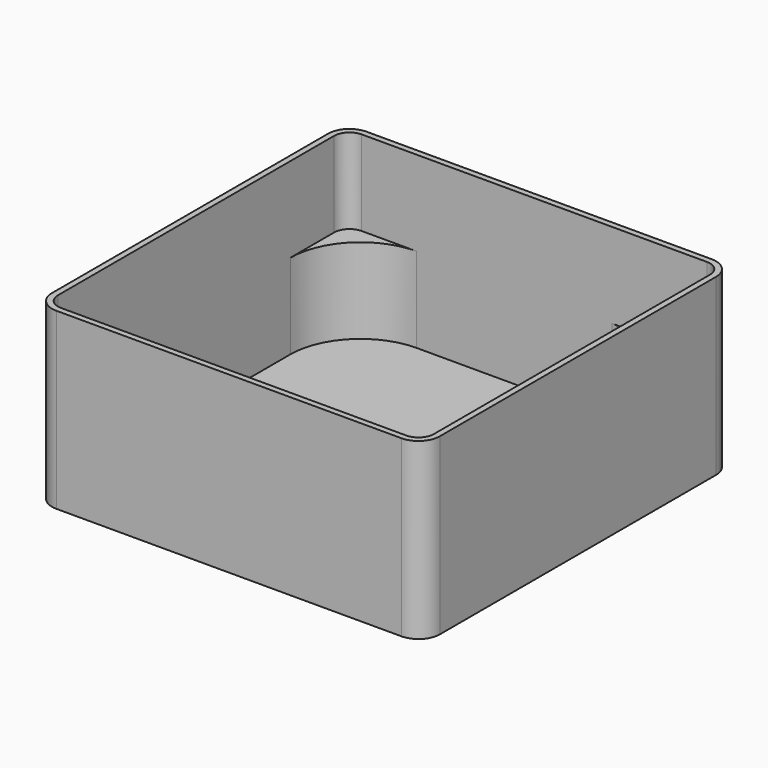
from build123d import *

# Parameters (mm, degrees)
F0_W     = 18
F0_H     = 8
F0_R     = 16.5
F0_W_2   = 8
F0_H_2   = 18
F1_DEPTH = 1
F2_DEPTH = 20
F4_DEPTH = 20
F6_DEPTH = 20


with BuildPart() as f1:
    # F0 (on Top) → F1 (new body)
    with BuildSketch(Plane.XY):
        with BuildLine():
            Line((45.2809703886, 40.8809703886), (-35.8809703886, 40.8809703886))
            ThreePointArc((-35.8809703886, 40.8809703886), (-39.4165042945, 39.4165042945), (-40.8809703886, 35.8809703886))
            Line((-40.8809703886, 35.8809703886), (-40.8809703886, -45.2809703886))
            ThreePointArc((-40.8809703886, -45.2809703886), (-39.4165042945, -48.8165042945), (-35.8809703886, -50.2809703886))
            Line((-35.8809703886, -50.2809703886), (45.2809703886, -50.2809703886))
            ThreePointArc((45.2809703886, -50.2809703886), (48.8165042945, -48.8165042945), (50.2809703886, -45.2809703886))
            Line((50.2809703886, -45.2809703886), (50.2809703886, 35.8809703886))
            ThreePointArc((50.2809703886, 35.8809703886), (48.8165042945, 39.4165042945), (45.2809703886, 40.8809703886))
        make_face()
        with Locations((-27.3089791051, -44.8809703886)):
            Rectangle(F0_W, F0_H, mode=Mode.SUBTRACT)
        with Locations((-7.9089791051, -44.8809703886)):
            Rectangle(F0_W, F0_H, mode=Mode.SUBTRACT)
        with Locations((-22.9809703886, -22.9809703886)):
            Circle(F0_R, mode=Mode.SUBTRACT)
        with Locations((11.4910208949, -44.8809703886)):
            Rectangle(F0_W, F0_H, mode=Mode.SUBTRACT)
        with Locations((30.8910208949, -44.8809703886)):
            Rectangle(F0_W, F0_H, mode=Mode.SUBTRACT)
        with Locations((44.8809703886, -30.8910208949)):
            Rectangle(F0_W_2, F0_H_2, mode=Mode.SUBTRACT)
        with Locations((22.9809703886, -22.9809703886)):
            Circle(F0_R, mode=Mode.SUBTRACT)
        with Locations((44.8809703886, -11.4910208949)):
            Rectangle(F0_W_2, F0_H_2, mode=Mode.SUBTRACT)
        with Locations((-22.9809703886, 22.9809703886)):
            Circle(F0_R, mode=Mode.SUBTRACT)
        with Locations((44.8809703886, 7.9089791051)):
            Rectangle(F0_W_2, F0_H_2, mode=Mode.SUBTRACT)
        with Locations((22.9809703886, 22.9809703886)):
            Circle(F0_R, mode=Mode.SUBTRACT)
        with Locations((44.8809703886, 27.3089791051)):
            Rectangle(F0_W_2, F0_H_2, mode=Mode.SUBTRACT)
        with Locations((-22.9809703886, 22.9809703886)):
            Circle(F0_R)
        with Locations((22.9809703886, 22.9809703886)):
            Circle(F0_R)
        with Locations((22.9809703886, -22.9809703886)):
            Circle(F0_R)
        with Locations((-22.9809703886, -22.9809703886)):
            Circle(F0_R)
        with Locations((44.8809703886, 27.3089791051)):
            Rectangle(F0_W_2, F0_H_2)
        with Locations((44.8809703886, 7.9089791051)):
            Rectangle(F0_W_2, F0_H_2)
        with Locations((44.8809703886, -11.4910208949)):
            Rectangle(F0_W_2, F0_H_2)
        with Locations((44.8809703886, -30.8910208949)):
            Rectangle(F0_W_2, F0_H_2)
        with Locations((30.8910208949, -44.8809703886)):
            Rectangle(F0_W, F0_H)
        with Locations((11.4910208949, -44.8809703886)):
            Rectangle(F0_W, F0_H)
        with Locations((-7.9089791051, -44.8809703886)):
            Rectangle(F0_W, F0_H)
        with Locations((-27.3089791051, -44.8809703886)):
            Rectangle(F0_W, F0_H)
    extrude(amount=-F1_DEPTH)

    # F0 (on Top) → F2 (join)
    with BuildSketch(Plane.XY):
        with BuildLine():
            Line((45.2809703886, 40.8809703886), (-35.8809703886, 40.8809703886))
            ThreePointArc((-35.8809703886, 40.8809703886), (-39.4165042945, 39.4165042945), (-40.8809703886, 35.8809703886))
            Line((-40.8809703886, 35.8809703886), (-40.8809703886, -45.2809703886))
            ThreePointArc((-40.8809703886, -45.2809703886), (-39.4165042945, -48.8165042945), (-35.8809703886, -50.2809703886))
            Line((-35.8809703886, -50.2809703886), (45.2809703886, -50.2809703886))
            ThreePointArc((45.2809703886, -50.2809703886), (48.8165042945, -48.8165042945), (50.2809703886, -45.2809703886))
            Line((50.2809703886, -45.2809703886), (50.2809703886, 35.8809703886))
            ThreePointArc((50.2809703886, 35.8809703886), (48.8165042945, 39.4165042945), (45.2809703886, 40.8809703886))
        make_face()
        with Locations((-27.3089791051, -44.8809703886)):
            Rectangle(F0_W, F0_H, mode=Mode.SUBTRACT)
        with Locations((-7.9089791051, -44.8809703886)):
            Rectangle(F0_W, F0_H, mode=Mode.SUBTRACT)
        with Locations((-22.9809703886, -22.9809703886)):
            Circle(F0_R, mode=Mode.SUBTRACT)
        with Locations((11.4910208949, -44.8809703886)):
            Rectangle(F0_W, F0_H, mode=Mode.SUBTRACT)
        with Locations((30.8910208949, -44.8809703886)):
            Rectangle(F0_W, F0_H, mode=Mode.SUBTRACT)
        with Locations((44.8809703886, -30.8910208949)):
            Rectangle(F0_W_2, F0_H_2, mode=Mode.SUBTRACT)
        with Locations((22.9809703886, -22.9809703886)):
            Circle(F0_R, mode=Mode.SUBTRACT)
        with Locations((44.8809703886, -11.4910208949)):
            Rectangle(F0_W_2, F0_H_2, mode=Mode.SUBTRACT)
        with Locations((-22.9809703886, 22.9809703886)):
            Circle(F0_R, mode=Mode.SUBTRACT)
        with Locations((44.8809703886, 7.9089791051)):
            Rectangle(F0_W_2, F0_H_2, mode=Mode.SUBTRACT)
        with Locations((22.9809703886, 22.9809703886)):
            Circle(F0_R, mode=Mode.SUBTRACT)
        with Locations((44.8809703886, 27.3089791051)):
            Rectangle(F0_W_2, F0_H_2, mode=Mode.SUBTRACT)
    extrude(amount=F2_DEPTH)

    # F3 (on face) → F4 (cut, through all)
    with BuildSketch(Plane.XY.offset(20)):
        with BuildLine():
            Line((22.9809703886, 39.4809703886), (-22.9809703886, 39.4809703886))
            ThreePointArc((-22.9809703886, 39.4809703886), (-11.313708499, 34.6482322781), (-6.4809703886, 22.9809703886))
            ThreePointArc((-6.4809703886, 22.9809703886), (-22.9809703886, 6.4809703886), (-39.4809703886, 22.9809703886))
            Line((-39.4809703886, 22.9809703886), (-39.4809703886, -22.9809703886))
            ThreePointArc((-39.4809703886, -22.9809703886), (-22.9809703886, -6.4809703886), (-6.4809703886, -22.9809703886))
            ThreePointArc((-6.4809703886, -22.9809703886), (-11.313708499, -34.6482322781), (-22.9809703886, -39.4809703886))
            Line((-22.9809703886, -39.4809703886), (22.9809703886, -39.4809703886))
            ThreePointArc((22.9809703886, -39.4809703886), (11.313708499, -11.313708499), (39.4809703886, -22.9809703886))
            Line((39.4809703886, -22.9809703886), (39.4809703886, 22.9809703886))
            ThreePointArc((39.4809703886, 22.9809703886), (11.313708499, 11.313708499), (22.9809703886, 39.4809703886))
        make_face()
    extrude(amount=-F4_DEPTH, mode=Mode.SUBTRACT)

    # F5 (on face) → F6 (join)
    with BuildSketch(Plane.XY.offset(20)):
        with BuildLine():
            ThreePointArc((50.2809703886, 35.8809703886), (48.8165042945, 39.4165042945), (45.2809703886, 40.8809703886))
            Line((45.2809703886, 40.8809703886), (-35.8809703886, 40.8809703886))
            ThreePointArc((-35.8809703886, 40.8809703886), (-39.4165042945, 39.4165042945), (-40.8809703886, 35.8809703886))
            Line((-40.8809703886, 35.8809703886), (-40.8809703886, -45.2809703886))
            ThreePointArc((-40.8809703886, -45.2809703886), (-39.4165042945, -48.8165042945), (-35.8809703886, -50.2809703886))
            Line((-35.8809703886, -50.2809703886), (45.2809703886, -50.2809703886))
            ThreePointArc((45.2809703886, -50.2809703886), (48.8165042945, -48.8165042945), (50.2809703886, -45.2809703886))
            Line((50.2809703886, -45.2809703886), (50.2809703886, 35.8809703886))
        make_face()
        with BuildLine():
            ThreePointArc((-39.4809703886, 35.8809703886), (-38.4265548008, 38.4265548008), (-35.8809703886, 39.4809703886))
            Line((-35.8809703886, 39.4809703886), (-22.9809703886, 39.4809703886))
            Line((-22.9809703886, 39.4809703886), (22.9809703886, 39.4809703886))
            Line((22.9809703886, 39.4809703886), (45.2809703886, 39.4809703886))
            ThreePointArc((45.2809703886, 39.4809703886), (47.6704440357, 38.5736299827), (48.8554365779, 36.3089791051))
            Line((48.8554365779, 36.3089791051), (48.8809703886, 36.3089791051))
            Line((48.8809703886, 36.3089791051), (48.8809703886, 35.8809703886))
            Line((48.8809703886, 35.8809703886), (48.8809703886, 18.3089791051))
            Line((48.8809703886, 18.3089791051), (48.8809703886, 16.9089791051))
            Line((48.8809703886, 16.9089791051), (48.8809703886, -1.0910208949))
            Line((48.8809703886, -1.0910208949), (48.8809703886, -2.4910208949))
            Line((48.8809703886, -2.4910208949), (48.8809703886, -20.4910208949))
            Line((48.8809703886, -20.4910208949), (48.8809703886, -21.8910208949))
            Line((48.8809703886, -21.8910208949), (48.8809703886, -39.8910208949))
            Line((48.8809703886, -39.8910208949), (48.8809703886, -45.2809703886))
            ThreePointArc((48.8809703886, -45.2809703886), (47.8265548008, -47.8265548008), (45.2809703886, -48.8809703886))
            Line((45.2809703886, -48.8809703886), (39.8910208949, -48.8809703886))
            Line((39.8910208949, -48.8809703886), (21.8910208949, -48.8809703886))
            Line((21.8910208949, -48.8809703886), (20.4910208949, -48.8809703886))
            Line((20.4910208949, -48.8809703886), (2.4910208949, -48.8809703886))
            Line((2.4910208949, -48.8809703886), (1.0910208949, -48.8809703886))
            Line((1.0910208949, -48.8809703886), (-16.9089791051, -48.8809703886))
            Line((-16.9089791051, -48.8809703886), (-18.3089791051, -48.8809703886))
            Line((-18.3089791051, -48.8809703886), (-35.8809703886, -48.8809703886))
            Line((-35.8809703886, -48.8809703886), (-36.3089791051, -48.8809703886))
            Line((-36.3089791051, -48.8809703886), (-36.3089791051, -48.8554365779))
            ThreePointArc((-36.3089791051, -48.8554365779), (-38.5736299827, -47.6704440357), (-39.4809703886, -45.2809703886))
            Line((-39.4809703886, -45.2809703886), (-39.4809703886, -22.9809703886))
            Line((-39.4809703886, -22.9809703886), (-39.4809703886, 22.9809703886))
            Line((-39.4809703886, 22.9809703886), (-39.4809703886, 35.8809703886))
        make_face(mode=Mode.SUBTRACT)
    extrude(amount=F6_DEPTH)


solid = f1.part
